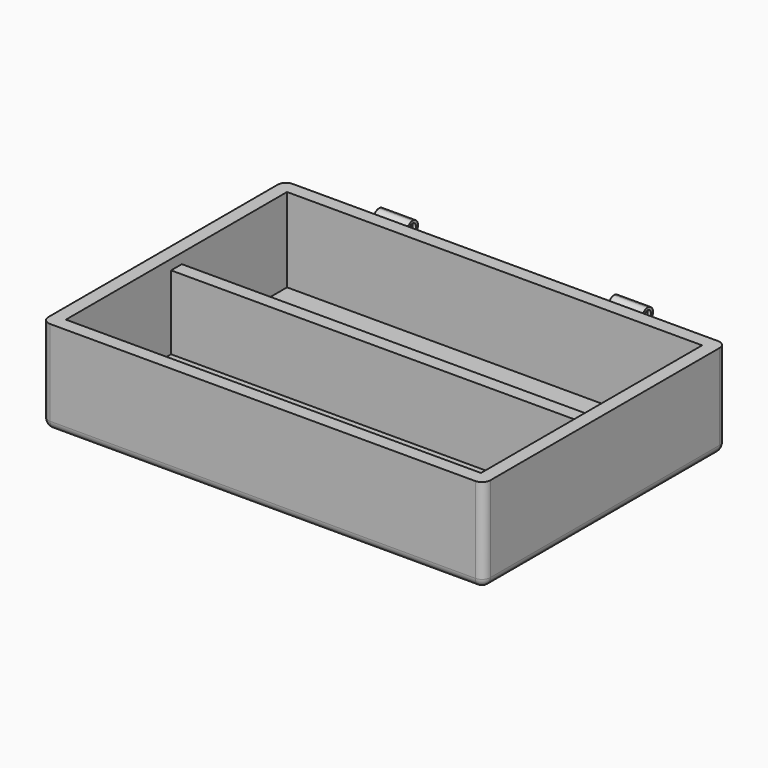
from build123d import *

# Parameters (mm, degrees)
F0_W           = 131.6228
F0_H           = 90.3224
F1_DEPTH       = 3
F2_W           = 131.6228
F2_H           = 90.3224
F2_W_2         = 123.6228
F2_H_2         = 82.3224
F3_DEPTH       = 25
F4_W           = 123.6228
F4_H           = 4
F5_DEPTH       = 25
F6_R           = 2.5
F7_W           = 10
F7_H           = 4
F8_DEPTH       = 5
F10_DEPTH      = 25
F10_DEPTH_BACK = 95.8124
F12_D          = 2.5
F12_DEPTH      = 1
F12_TIP        = 0.7510757738
F14_D          = 2.5
F14_DEPTH      = 1
F14_TIP        = 0.7510757738
F16_D          = 2.5
F16_DEPTH      = 1
F16_TIP        = 0.7510757738
F18_D          = 2.5
F18_DEPTH      = 1
F18_TIP        = 0.7510757738
F19_W          = 123.6228
F19_H          = 82.3224
F20_DEPTH      = 3


with BuildPart() as f1:
    # F0 (on Top) → F1 (new body)
    with BuildSketch(Plane.XY):
        Rectangle(F0_W, F0_H)
    extrude(amount=F1_DEPTH)

    # F2 (on face) → F3 (join)
    with BuildSketch(Plane.XY.offset(3)):
        Rectangle(F2_W, F2_H)
        Rectangle(F2_W_2, F2_H_2, mode=Mode.SUBTRACT)
    extrude(amount=F3_DEPTH)

    # F4 (on face) → F5 (join)
    with BuildSketch(Plane.XY.offset(3)):
        Rectangle(F4_W, F4_H)
    extrude(amount=F5_DEPTH)

    # F6
    f6_edges = [f1.edges().sort_by_distance(p)[0] for p in [
        (65.8114, 45.1612, 14),
        (65.8114, -45.1612, 14),
        (-65.8114, -45.1612, 14),
        (-65.8114, 45.1612, 14),
        (0, 45.1612, 0),
        (-65.8114, 0, 0),
        (0, -45.1612, 0),
        (65.8114, 0, 0),
    ]]
    fillet(f6_edges, radius=F6_R)

    # F7 (on face) → F8 (join)
    with BuildSketch(Plane(origin=(0, 45.1612, 0), x_dir=(-1, 0, 0), z_dir=(0, 1, 0))):
        with Locations((-35, 26)):
            Rectangle(F7_W, F7_H)
        with Locations((35, 26)):
            Rectangle(F7_W, F7_H)
    extrude(amount=F8_DEPTH)

    # F9 (on face) → F10 (cut, two sides)
    with BuildSketch(Plane(origin=(30, 0, 0), x_dir=(0, -1, 0), z_dir=(-1, 0, 0))) as f10_sk:
        with BuildLine():
            ThreePointArc((-50.1612, 26), (-49.5754135624, 27.4142135624), (-48.1612, 28))
            Line((-48.1612, 28), (-50.1612, 28))
            Line((-50.1612, 28), (-50.1612, 26))
        make_face()
        with BuildLine():
            Line((-50.1612, 24), (-48.1612, 24))
            ThreePointArc((-48.1612, 24), (-49.5754135624, 24.5857864376), (-50.1612, 26))
            Line((-50.1612, 26), (-50.1612, 24))
        make_face()
        with BuildLine():
            Line((-45.1612, 25), (-46.4291491924, 25))
            ThreePointArc((-46.4291491924, 25), (-47.1612, 24.2679491924), (-48.1612, 24))
            Line((-48.1612, 24), (-45.1612, 24))
            Line((-45.1612, 24), (-45.1612, 25))
        make_face()
        with BuildLine():
            ThreePointArc((-48.1612, 28), (-47.1612, 27.7320508076), (-46.4291491924, 27))
            Line((-46.4291491924, 27), (-45.1612, 27))
            Line((-45.1612, 27), (-45.1612, 28))
            Line((-45.1612, 28), (-48.1612, 28))
        make_face()
    extrude(amount=-F10_DEPTH, mode=Mode.SUBTRACT)
    extrude(f10_sk.sketch, amount=F10_DEPTH_BACK, mode=Mode.SUBTRACT)

    # F12 (one way)
    with BuildSketch(Plane(origin=(30, 0, 0), x_dir=(0, -1, 0), z_dir=(-1, 0, 0))):
        with Locations((-48.1612, 26)):
            Circle(F12_D / 2)
    extrude(amount=-F12_DEPTH, mode=Mode.SUBTRACT)
    with Locations(Plane(origin=(30, 0, 0), x_dir=(0, -1, 0), z_dir=(-1, 0, 0))):
        with Locations((-48.1612, 26)):
            with Locations((0, 0, -(F12_DEPTH + F12_TIP / 2))):  # 118° drill point
                Cone(0, F12_D / 2, F12_TIP, mode=Mode.SUBTRACT)

    # F14
    with Locations(Plane.YZ.offset(40)):
        with Locations((48.1612, 26)):
            Hole(F14_D / 2, depth=F14_DEPTH)
            with Locations((0, 0, -(F14_DEPTH + F14_TIP / 2))):  # 118° drill point
                Cone(0, F14_D / 2, F14_TIP, mode=Mode.SUBTRACT)

    # F16 (one way)
    with BuildSketch(Plane.YZ.offset(-30)):
        with Locations((48.1612, 26)):
            Circle(F16_D / 2)
    extrude(amount=-F16_DEPTH, mode=Mode.SUBTRACT)
    with Locations(Plane.YZ.offset(-30)):
        with Locations((48.1612, 26)):
            with Locations((0, 0, -(F16_DEPTH + F16_TIP / 2))):  # 118° drill point
                Cone(0, F16_D / 2, F16_TIP, mode=Mode.SUBTRACT)

    # F18
    with Locations(Plane(origin=(-40, 0, 0), x_dir=(0, -1, 0), z_dir=(-1, 0, 0))):
        with Locations((-48.1612, 26)):
            Hole(F18_D / 2, depth=F18_DEPTH)
            with Locations((0, 0, -(F18_DEPTH + F18_TIP / 2))):  # 118° drill point
                Cone(0, F18_D / 2, F18_TIP, mode=Mode.SUBTRACT)

    # F19 (on face) → F20 (cut)
    with BuildSketch(Plane.XY.offset(28)):
        Rectangle(F19_W, F19_H)
    extrude(amount=-F20_DEPTH, mode=Mode.SUBTRACT)


solid = f1.part
